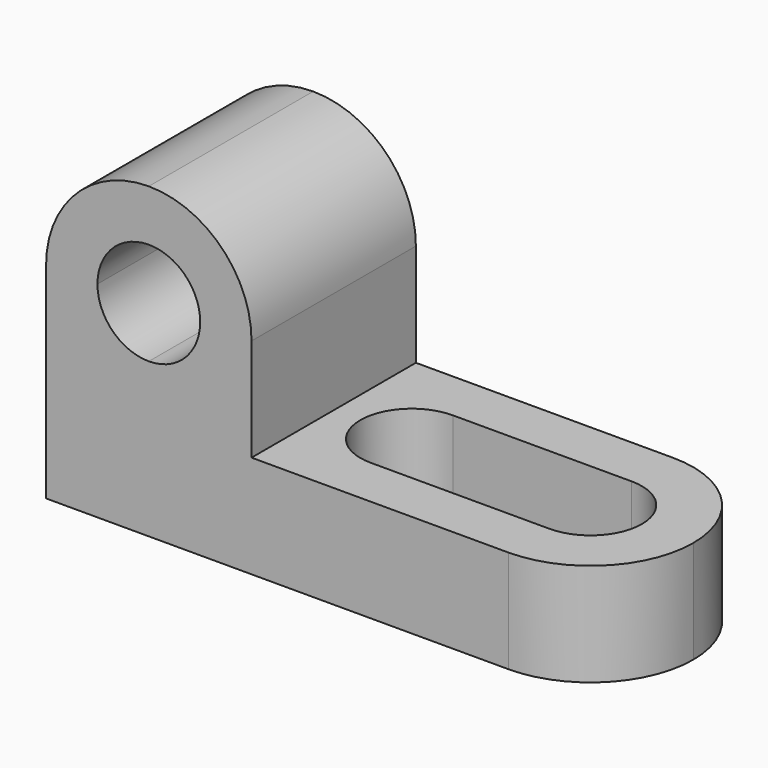
from build123d import *

# Parameters (mm, degrees)
F0_W      = 69.85
F0_H      = 38.1
F1_DEPTH  = 25.4
F2_W      = 44.45
F2_H      = 25.4
F3_DEPTH  = 25.401
F5_DEPTH  = 25.401
F7_DEPTH  = 25.401
F9_DEPTH  = 12.701
F10_W     = 22.1024058417
F10_H     = 12.7
F11_DEPTH = 25.4
F13_DEPTH = 12.701


with BuildPart() as f1:
    # F0 (on Front) → F1 (new body)
    with BuildSketch(Plane.XZ):
        with Locations((-0.1225941583, 19.05)):
            Rectangle(F0_W, F0_H)
    extrude(amount=F1_DEPTH)

    # F2 (on face) → F3 (cut, through all)
    with BuildSketch(Plane.XZ.offset(25.4)):
        with Locations((12.5774058417, 25.4)):
            Rectangle(F2_W, F2_H)
    extrude(amount=-F3_DEPTH, mode=Mode.SUBTRACT)

    # F4 (on face) → F5 (cut, through all)
    with BuildSketch(Plane.XZ.offset(25.4)):
        with BuildLine():
            Line((-9.6475941583, 38.1), (-22.3475941583, 38.1))
            ThreePointArc((-22.3475941583, 38.1), (-13.3673380372, 34.3802561211), (-9.6475941583, 25.4))
            Line((-9.6475941583, 25.4), (-9.6475941583, 38.1))
        make_face()
        with BuildLine():
            Line((-22.3475941583, 38.1), (-35.0475941583, 38.1))
            Line((-35.0475941583, 38.1), (-35.0475941583, 25.4))
            ThreePointArc((-35.0475941583, 25.4), (-31.3278502794, 34.3802561211), (-22.3475941583, 38.1))
        make_face()
    extrude(amount=-F5_DEPTH, mode=Mode.SUBTRACT)

    # F6 (on face) → F7 (cut, through all)
    with BuildSketch(Plane.XZ.offset(25.4)):
        with BuildLine():
            ThreePointArc((-22.3475941583, 31.75), (-26.8377222188, 29.8901280605), (-28.6975941583, 25.4))
            Line((-28.6975941583, 25.4), (-22.3475941583, 25.4))
            Line((-22.3475941583, 25.4), (-22.3475941583, 31.75))
        make_face()
        with BuildLine():
            Line((-22.3475941583, 31.75), (-22.3475941583, 25.4))
            Line((-22.3475941583, 25.4), (-15.9975941583, 25.4))
            ThreePointArc((-15.9975941583, 25.4), (-17.8574660977, 29.8901280605), (-22.3475941583, 31.75))
        make_face()
        with BuildLine():
            Line((-15.9975941583, 25.4), (-22.3475941583, 25.4))
            Line((-22.3475941583, 25.4), (-22.3475941583, 19.05))
            ThreePointArc((-22.3475941583, 19.05), (-17.8574660977, 20.9098719395), (-15.9975941583, 25.4))
        make_face()
        with BuildLine():
            Line((-22.3475941583, 25.4), (-28.6975941583, 25.4))
            ThreePointArc((-28.6975941583, 25.4), (-26.8377222188, 20.9098719395), (-22.3475941583, 19.05))
            Line((-22.3475941583, 19.05), (-22.3475941583, 25.4))
        make_face()
    extrude(amount=-F7_DEPTH, mode=Mode.SUBTRACT)

    # F8 (on face) → F9 (cut, through all)
    with BuildSketch(Plane.XY.offset(12.7)):
        with BuildLine():
            Line((28.4524058417, 0), (22.1024058417, 0))
            ThreePointArc((22.1024058417, 0), (31.0826619628, -3.7197438789), (34.8024058417, -12.7))
            Line((34.8024058417, -12.7), (34.8024058417, 0))
            Line((34.8024058417, 0), (28.4524058417, 0))
        make_face()
        with BuildLine():
            ThreePointArc((34.8024058417, -12.7), (31.0826619628, -21.6802561211), (22.1024058417, -25.4))
            Line((22.1024058417, -25.4), (28.4524058417, -25.4))
            Line((28.4524058417, -25.4), (34.8024058417, -25.4))
            Line((34.8024058417, -25.4), (34.8024058417, -12.7))
        make_face()
    extrude(amount=-F9_DEPTH, mode=Mode.SUBTRACT)

    # F10 (on face) → F11 (cut)
    with BuildSketch(Plane.XY.offset(12.7)):
        with Locations((11.0512029209, -12.7)):
            Rectangle(F10_W, F10_H)
        with Locations((11.0512029209, -12.7)):
            Rectangle(F10_W, F10_H)
    extrude(amount=-F11_DEPTH, mode=Mode.SUBTRACT)

    # F12 (on face) → F13 (cut, through all)
    with BuildSketch(Plane.XY.offset(12.7)):
        with BuildLine():
            ThreePointArc((0, -6.35), (-6.35, -12.7), (0, -19.05))
            Line((0, -19.05), (0, -6.35))
        make_face()
        with BuildLine():
            Line((22.1024058417, -6.35), (22.1024058417, -19.05))
            ThreePointArc((22.1024058417, -19.05), (28.4524058417, -12.7), (22.1024058417, -6.35))
        make_face()
    extrude(amount=-F13_DEPTH, mode=Mode.SUBTRACT)


solid = f1.part
